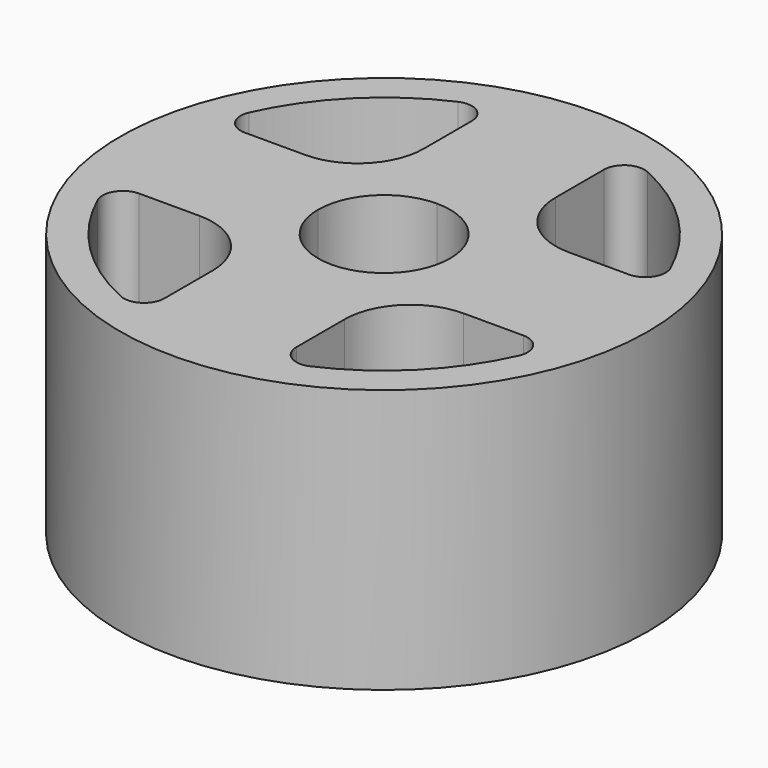
from build123d import *

# Parameters (mm, degrees)
F0_R     = 25.4
F1_DEPTH = 12.7


with BuildPart() as f1:
    # F0 (on Top) → F1 (new body, symmetric)
    with BuildSketch(Plane.XY):
        Circle(F0_R)
        with BuildLine():
            ThreePointArc((-9.107237, -20.273353), (-15.715448, -15.715448), (-20.273353, -9.107237))
            ThreePointArc((-20.273353, -9.107237), (-20.13134, -7.243326), (-18.489298, -6.35))
            Line((-18.489298, -6.35), (-12.7, -6.35))
            ThreePointArc((-12.7, -6.35), (-8.209872, -8.209872), (-6.35, -12.7))
            Line((-6.35, -12.7), (-6.35, -18.489298))
            ThreePointArc((-6.35, -18.489298), (-7.243326, -20.13134), (-9.107237, -20.273353))
        make_face(mode=Mode.SUBTRACT)
        with BuildLine():
            ThreePointArc((0, 6.35), (4.490128, 4.490128), (6.35, 0))
            ThreePointArc((6.35, 0), (4.490128, -4.490128), (0, -6.35))
            ThreePointArc((0, -6.35), (-4.490128, -4.490128), (-6.35, 0))
            ThreePointArc((-6.35, 0), (-4.490128, 4.490128), (0, 6.35))
        make_face(mode=Mode.SUBTRACT)
        with BuildLine():
            Line((6.35, -18.489298), (6.35, -12.7))
            ThreePointArc((6.35, -12.7), (8.209872, -8.209872), (12.7, -6.35))
            Line((12.7, -6.35), (18.489298, -6.35))
            ThreePointArc((18.489298, -6.35), (20.13134, -7.243326), (20.273353, -9.107237))
            ThreePointArc((20.273353, -9.107237), (15.715448, -15.715448), (9.107237, -20.273353))
            ThreePointArc((9.107237, -20.273353), (7.243326, -20.13134), (6.35, -18.489298))
        make_face(mode=Mode.SUBTRACT)
        with BuildLine():
            Line((-6.35, 18.489298), (-6.35, 12.7))
            ThreePointArc((-6.35, 12.7), (-8.209872, 8.209872), (-12.7, 6.35))
            Line((-12.7, 6.35), (-18.489298, 6.35))
            ThreePointArc((-18.489298, 6.35), (-20.13134, 7.243326), (-20.273353, 9.107237))
            ThreePointArc((-20.273353, 9.107237), (-15.715448, 15.715448), (-9.107237, 20.273353))
            ThreePointArc((-9.107237, 20.273353), (-7.243326, 20.13134), (-6.35, 18.489298))
        make_face(mode=Mode.SUBTRACT)
        with BuildLine():
            ThreePointArc((12.7, 6.35), (8.209872, 8.209872), (6.35, 12.7))
            Line((6.35, 12.7), (6.35, 18.489298))
            ThreePointArc((6.35, 18.489298), (7.243326, 20.13134), (9.107237, 20.273353))
            ThreePointArc((9.107237, 20.273353), (15.715448, 15.715448), (20.273353, 9.107237))
            ThreePointArc((20.273353, 9.107237), (20.13134, 7.243326), (18.489298, 6.35))
            Line((18.489298, 6.35), (12.7, 6.35))
        make_face(mode=Mode.SUBTRACT)
    extrude(amount=F1_DEPTH, both=True)


solid = f1.part
